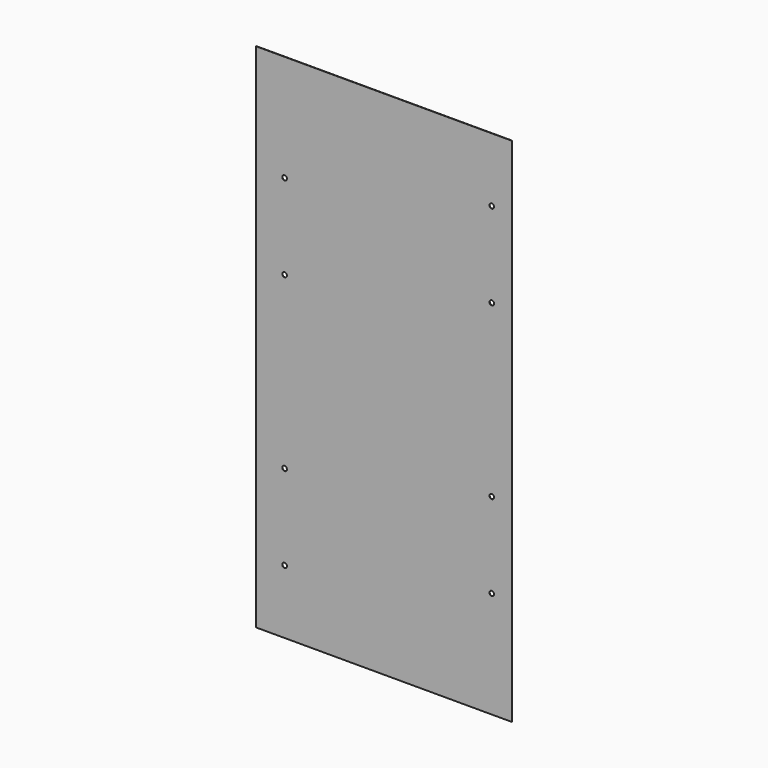
from build123d import *

# Parameters (mm, degrees)
F0_W     = 609.6
F0_H     = 1219.2
F1_DEPTH = 0.79375
F2_R     = 5.55625
F3_DEPTH = 25.4


with BuildPart() as f1:
    # F0 (on Front) → F1 (new body)
    with BuildSketch(Plane.XZ):
        with Locations((304.8, 609.6)):
            Rectangle(F0_W, F0_H)
    extrude(amount=F1_DEPTH)

    # F2 (on face) → F3 (cut)
    with BuildSketch(Plane.XZ.offset(0.79375)):
        with Locations((68.2625, 152.4)):
            Circle(F2_R)
        with Locations((68.2625, 355.6)):
            Circle(F2_R)
        with Locations((561.975, 863.6)):
            Circle(F2_R)
        with Locations((561.975, 1066.8)):
            Circle(F2_R)
        with Locations((68.2625, 762)):
            Circle(F2_R)
        with Locations((68.2625, 965.2)):
            Circle(F2_R)
        with Locations((561.975, 254)):
            Circle(F2_R)
        with Locations((561.975, 457.2)):
            Circle(F2_R)
    extrude(amount=-F3_DEPTH, mode=Mode.SUBTRACT)


solid = f1.part
